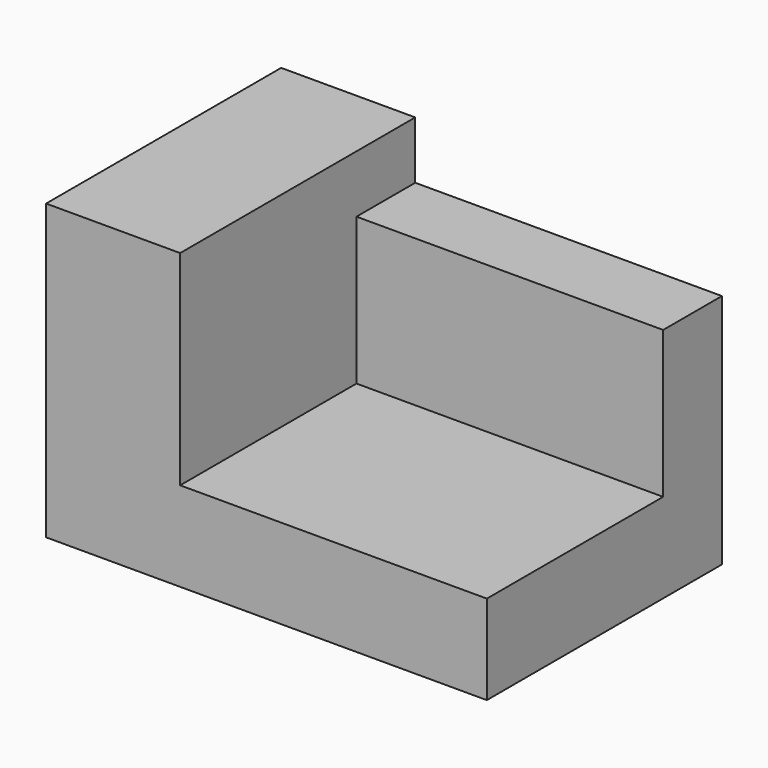
from build123d import *

# Parameters (mm, degrees)
F1_DEPTH = 25.4
F2_W     = 6.35
F2_H     = 12.7
F3_DEPTH = 26.509916


with BuildPart() as f1:
    # F0 (on Front) → F1 (new body)
    with BuildSketch(Plane.XZ):
        Polygon((0, 25.4), (0, 0), (38.1, 0), (38.1, 7.726722), (11.590084, 7.726722), (11.590084, 25.4), align=None)
    extrude(amount=F1_DEPTH)

    # F2 (on face) → F3 (join, through all)
    with BuildSketch(Plane.YZ.offset(11.590084)):
        with Locations((-3.175, 14.076722)):
            Rectangle(F2_W, F2_H)
    extrude(amount=F3_DEPTH)


solid = f1.part
